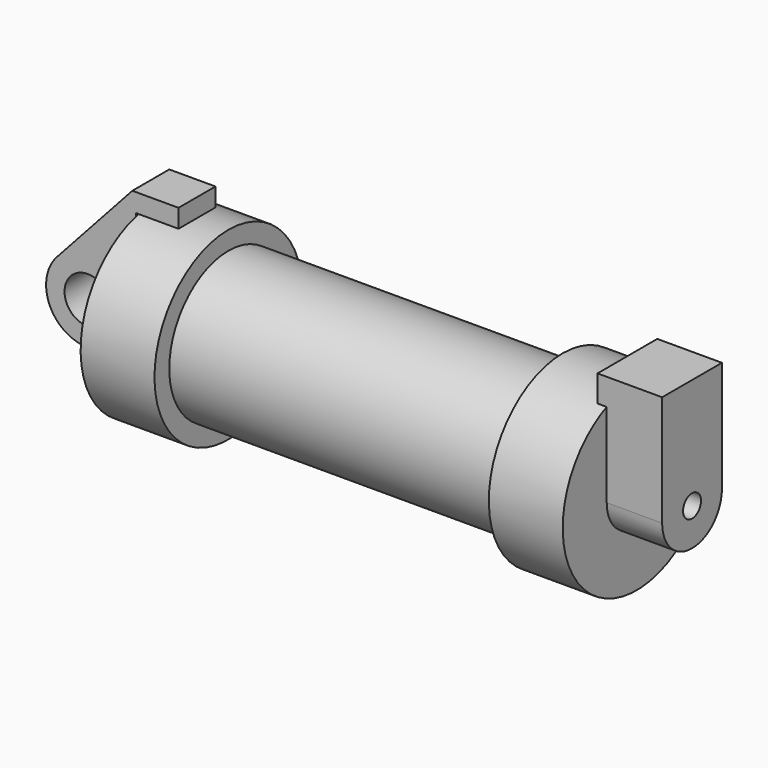
from build123d import *

# Parameters (mm, degrees)
F0_W          = 5.842
F0_H          = 12.7
F0_R          = 3.175
F2_DEPTH      = 3.175
F3_R          = 1.541072
F4_DEPTH      = 7.62
F4_DEPTH_BACK = 1.27


with BuildPart() as f1:
    # F0 (on Front) → F1 (revolve)
    with BuildSketch(Plane.XZ):
        Polygon((5.842, 12.7), (5.842, 0), (66.294, 0), (66.294, 12.7), (56.134, 12.7), (56.134, 10.16), (10.16, 10.16), (10.16, 12.7), align=None)
        with Locations((2.921, 6.35)):
            Rectangle(F0_W, F0_H)
    revolve(axis=Axis((33.147, 0, 0), (-1, 0, 0)))


with BuildPart() as f2:
    # F0 (on Front) → F2 (new body, symmetric)
    with BuildSketch(Plane.XZ):
        with BuildLine():
            Line((-0.9398, 0), (0, 0))
            Line((0, 0), (0, 12.7))
            Line((0, 12.7), (5.842, 12.7))
            Line((5.842, 12.7), (5.842, 15.24))
            Line((5.842, 15.24), (-0.508, 15.24))
            Line((-0.508, 15.24), (-10.88063, 3.847543))
            ThreePointArc((-10.88063, 3.847543), (-4.591961, 5.329721), (-0.9398, 0))
        make_face()
        with BuildLine():
            Line((5.842, 0), (0, 0))
            Line((0, 0), (-0.9398, 0))
            ThreePointArc((-0.9398, 0), (-3.195791, -4.549339), (-8.182663, -5.506983))
            Line((-8.182663, -5.506983), (5.842, -9.398))
            Line((5.842, -9.398), (5.842, 0))
        make_face()
        with BuildLine():
            ThreePointArc((-8.182663, -5.506983), (-3.195791, -4.549339), (-0.9398, 0))
            ThreePointArc((-0.9398, 0), (-4.591961, 5.329721), (-10.88063, 3.847543))
            ThreePointArc((-10.88063, 3.847543), (-12.145978, -1.583727), (-8.182663, -5.506983))
        make_face()
        with Locations((-6.6548, 0)):
            Circle(F0_R, mode=Mode.SUBTRACT)
    extrude(amount=F2_DEPTH, both=True)


with BuildPart() as f4:
    # F3 (on face) → F4 (new body, two sides)
    with BuildSketch(Plane.YZ.offset(66.294)) as f4_sk:
        with BuildLine():
            ThreePointArc((-5.136908, 0), (0, -5.136908), (5.136908, 0))
            ThreePointArc((5.136908, 0), (0, 5.136908), (-5.136908, 0))
        make_face()
        Circle(F3_R, mode=Mode.SUBTRACT)
        with BuildLine():
            ThreePointArc((-5.136908, 0), (0, 5.136908), (5.136908, 0))
            Line((5.136908, 0), (5.136908, 15.24))
            Line((5.136908, 15.24), (-5.136908, 15.24))
            Line((-5.136908, 15.24), (-5.136908, 0))
        make_face()
    extrude(amount=F4_DEPTH)
    extrude(f4_sk.sketch, amount=-F4_DEPTH_BACK)


solid = Compound([f1.part, f2.part, f4.part])
